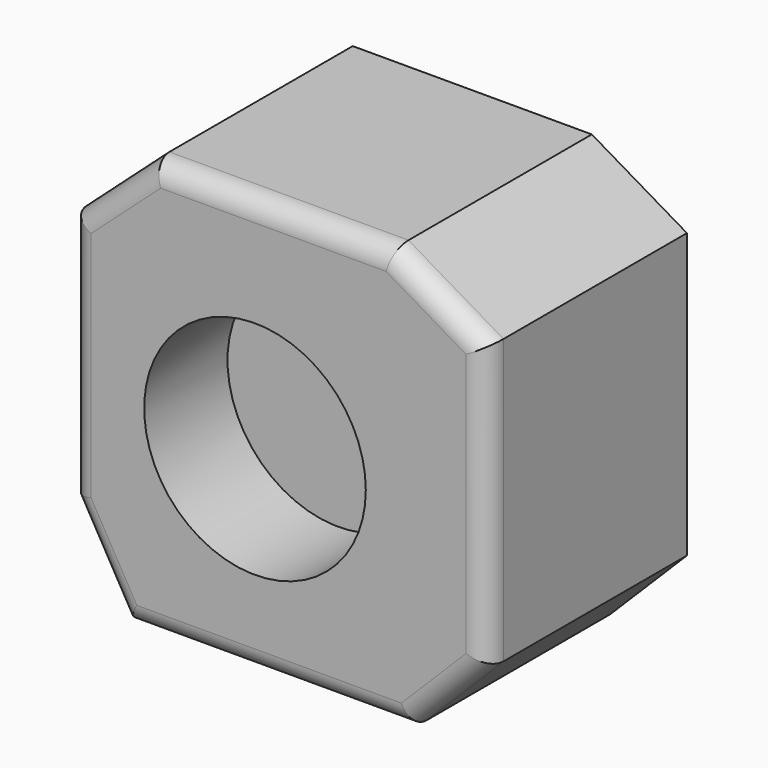
from build123d import *

# Parameters (mm, degrees)
F1_DEPTH = 70
F2_SIZE  = 10
F3_R     = 5
F4_R     = 21.491967
F5_DEPTH = 39.1
F6_R     = 26.594603
F7_DEPTH = 25


with BuildPart() as f1:
    # F0 (on Front) → F1 (new body)
    with BuildSketch(Plane.XZ):
        Polygon((23.009436, 48.425878), (-34.368057, 48.425878), (-54.164968, 30.633396), (-54.164968, -28.757341), (-41.078873, -51.574122), (27.371468, -51.574122), (45.835032, -33.119373), (45.835032, 34.995425), align=None)
    extrude(amount=F1_DEPTH)

    # F2
    f2_edges = [f1.edges().sort_by_distance(p)[0] for p in [
        (-5.67931, 0, 48.425878),
        (-44.266513, 0, 39.529637),
        (-54.164968, 0, 0.938027),
        (-47.621921, 0, -40.165732),
        (-6.853702, 0, -51.574122),
        (36.60325, 0, -42.346748),
        (45.835032, 0, 0.938026),
        (34.422234, 0, 41.710652),
    ]]
    chamfer(f2_edges, length=F2_SIZE)

    # F3
    f3_edges = [f1.edges().sort_by_distance(p)[0] for p in [
        (-5.67931, -70, 48.425878),
        (-44.266513, -70, 39.529637),
        (-54.164968, -70, 0.938027),
        (-47.621921, -70, -40.165732),
        (-6.853702, -70, -51.574122),
        (36.60325, -70, -42.346748),
        (45.835032, -70, 0.938026),
        (34.422234, -70, 41.710652),
    ]]
    fillet(f3_edges, radius=F3_R)

    # F4 (on face) → F5 (join)
    with BuildSketch(Plane(origin=(0, 0, 0), x_dir=(-1, 0, 0), z_dir=(0, 1, 0))):
        Circle(F4_R)
    extrude(amount=-F5_DEPTH)

    # F6 (on face) → F7 (cut)
    with BuildSketch(Plane.XZ.offset(70)):
        with Locations((-9.82369, -4.344146)):
            Circle(F6_R)
    extrude(amount=-F7_DEPTH, mode=Mode.SUBTRACT)


solid = f1.part
